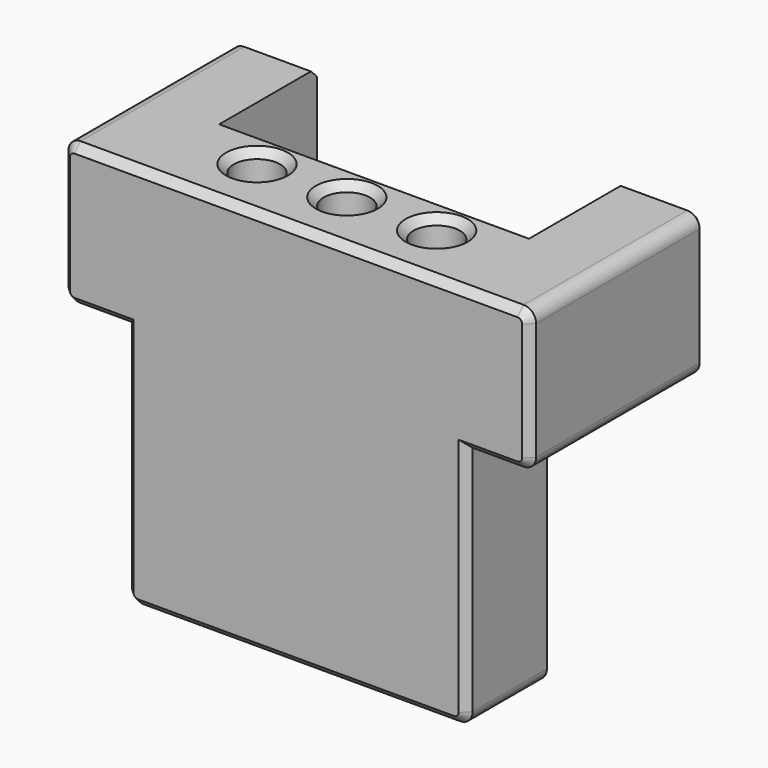
from build123d import *

# Parameters (mm, degrees)
PAD024_DEPTH         = 7.1
SKETCH051_W          = 7.4
SKETCH051_H          = 6.5
POCKET035_DEPTH      = 7.551
POCKET035_DEPTH_BACK = 7.551
SKETCH052_W          = 10
SKETCH052_H          = 7.5
POCKET036_DEPTH      = 19.501
POCKET036_DEPTH_BACK = 0.001
SKETCH053_R          = 0.75
POCKET037_DEPTH      = 16.25
CHAMFER007_SIZE      = 0.25
FILLET004_R          = 0.4
CHAMFER008_SIZE      = 0.25


with BuildPart() as part:
    # Sketch050 → Pad024 (new body)
    with BuildSketch(Plane.XZ.offset(3.55)):
        Polygon((5.5, -11.6), (5.5, -19.5), (-5.5, -19.5), (-5.5, -11.6), (-7.55, -11.6), (-7.55, -7), (7.55, -7), (7.55, -11.6), align=None)
    extrude(amount=PAD024_DEPTH)

    # Sketch051 → Pocket035 (cut, two sides)
    with BuildSketch(Plane.YZ) as pocket035_sk:
        with Locations((-3.7, -16.25)):
            Rectangle(SKETCH051_W, SKETCH051_H)
    extrude(amount=-POCKET035_DEPTH, mode=Mode.SUBTRACT)
    extrude(pocket035_sk.sketch, amount=POCKET035_DEPTH_BACK, mode=Mode.SUBTRACT)

    # Sketch052 → Pocket036 (cut, two sides)
    with BuildSketch(Plane.XY) as pocket036_sk:
        with Locations((0, -3.75)):
            Rectangle(SKETCH052_W, SKETCH052_H)
    extrude(amount=-POCKET036_DEPTH, mode=Mode.SUBTRACT)
    extrude(pocket036_sk.sketch, amount=POCKET036_DEPTH_BACK, mode=Mode.SUBTRACT)

    # Sketch053 → Pocket037 (cut, symmetric)
    with BuildSketch(Plane.XY):
        with Locations((0, -8.6)):
            Circle(SKETCH053_R)
        with Locations((2.9, -8.6)):
            Circle(SKETCH053_R)
        with Locations((-2.9, -8.6)):
            Circle(SKETCH053_R)
    extrude(amount=POCKET037_DEPTH, both=True, mode=Mode.SUBTRACT)

    # Chamfer007
    chamfer007_edges = [part.edges().sort_by_distance(p)[0] for p in [
        (2.15, -8.6, -7),
        (-0.75, -8.6, -7),
        (-3.65, -8.6, -7),
    ]]
    chamfer(chamfer007_edges, length=CHAMFER007_SIZE)

    # Fillet004
    fillet004_edges = [part.edges().sort_by_distance(p)[0] for p in [
        (-7.55, -7.1, -7),
        (7.55, -7.1, -7),
        (-7.55, -7.1, -11.6),
        (5.5, -9.025, -19.5),
        (-5.5, -9.025, -19.5),
        (7.55, -7.1, -11.6),
    ]]
    fillet(fillet004_edges, radius=FILLET004_R)

    # Chamfer008
    chamfer008_edges = [part.edges().sort_by_distance(p)[0] for p in [
        (0, -10.65, -7),
        (0, -10.65, -19.5),
        (-7.55, -3.55, -9.3),
        (7.55, -3.55, -9.3),
    ]]
    chamfer(chamfer008_edges, length=CHAMFER008_SIZE)


with BuildPart() as part_1:
    # Body011 placement: moved
    add(part.part.moved(Location((-18, 7.1, 0))))


solid = part_1.part
